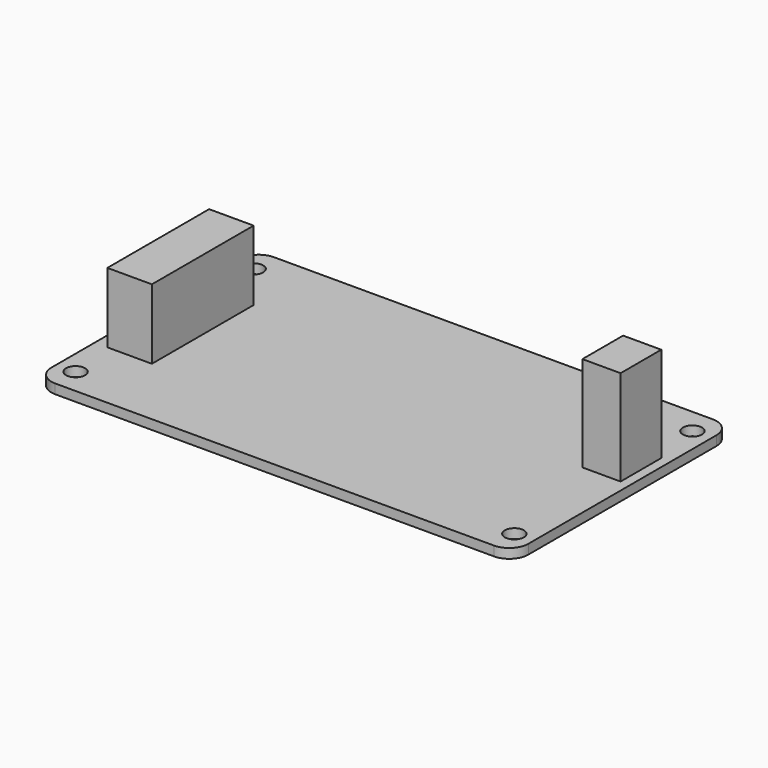
from build123d import *

# Parameters (mm, degrees)
F0_W     = 75
F0_H     = 43
F1_DEPTH = 1.5
F3_D     = 3
F4_R     = 3
F5_W     = 7
F5_H     = 20
F6_DEPTH = 11
F7_W     = 6
F7_H     = 8
F8_DEPTH = 15


with BuildPart() as f1:
    # F0 (on Top) → F1 (new body)
    with BuildSketch(Plane.XY):
        Rectangle(F0_W, F0_H)
    extrude(amount=F1_DEPTH)

    # F3 (through all)
    with Locations(Plane.XY.offset(1.5)):
        with Locations((-34.5, 17.5), (34.5, 17.5), (34.5, -17.5), (-34.5, -17.5)):
            Hole(F3_D / 2)

    # F4
    f4_edges = [f1.edges().sort_by_distance(p)[0] for p in [
        (-37.5, -21.5, 0.75),
        (37.5, -21.5, 0.75),
        (-37.5, 21.5, 0.75),
        (37.5, 21.5, 0.75),
    ]]
    fillet(f4_edges, radius=F4_R)

    # F5 (on face) → F6 (join)
    with BuildSketch(Plane.XY.offset(1.5)):
        with Locations((-32, 0)):
            Rectangle(F5_W, F5_H)
    extrude(amount=F6_DEPTH)

    # F7 (on face) → F8 (join)
    with BuildSketch(Plane.XY.offset(1.5)):
        with Locations((33, 5.5)):
            Rectangle(F7_W, F7_H)
    extrude(amount=F8_DEPTH)


solid = f1.part
